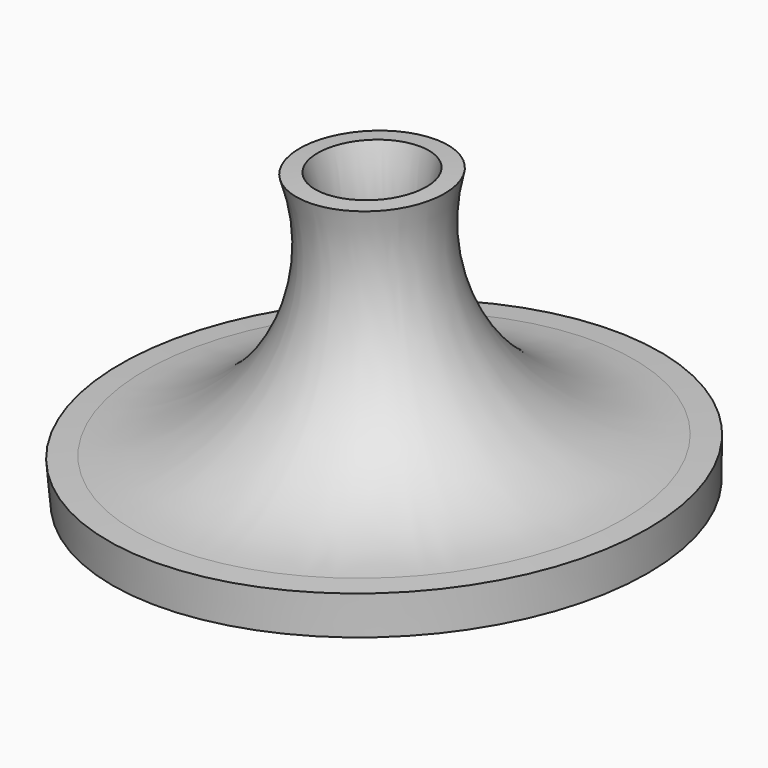
from build123d import *

# Parameters (mm, degrees)
F2_T = -4


with BuildPart() as f1:
    # F0 (on Front) → F1 (revolve)
    with BuildSketch(Plane.XZ):
        with BuildLine():
            Line((-16.4214689285, 60.553342104), (-13.3589282632, 0))
            Line((-13.3589282632, 0), (45.9656976163, 0))
            Line((45.9656976163, 0), (45.9656976163, 8.8407509029))
            Line((45.9656976163, 8.8407509029), (40.3396114707, 8.8407509029))
            ThreePointArc((40.3396114707, 8.8407509029), (7.5467908298, 24.8501696587), (0, 60.553342104))
            Line((0, 60.553342104), (-16.4214689285, 60.553342104))
        make_face()
    revolve(axis=Axis((-14.8901985958, 0, 30.276671052), (0.0505113539, 0, -0.9987234868)))

    # F2
    f2_openings = [f1.faces().sort_by_distance(p)[0] for p in [
        (-24.590306, 0, 59.72493),
        (-42.869881, 0, -2.992742),
    ]]
    offset(amount=F2_T, openings=f2_openings)


solid = f1.part
